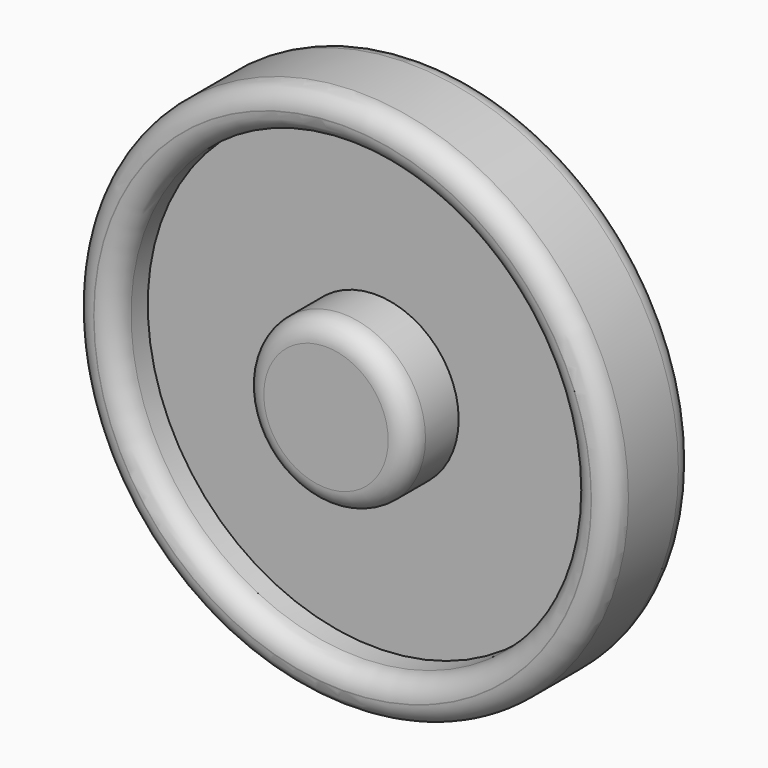
from build123d import *

# Parameters (mm, degrees)
CYLINDER236_R     = 11
CYLINDER236_DEPTH = 2
CYLINDER235_R     = 1.65
CYLINDER235_DEPTH = 5
CYLINDER234_R     = 13
CYLINDER234_DEPTH = 5
BOX161_W          = 10
BOX161_H          = 12
BOX161_DEPTH      = 10
CYLINDER233_R     = 1.65
CYLINDER233_DEPTH = 5
FILLET067_R       = 0.99
FILLET066_R       = 1
CYLINDER232_R     = 1.65
CYLINDER232_DEPTH = 2
CYLINDER231_R     = 4
CYLINDER231_DEPTH = 3
FILLET065_R       = 1


with BuildPart() as cylinder519:
    # Cylinder236 → Cylinder236 (new body)
    with BuildSketch(Plane(origin=(333.25, -23, -34.25), x_dir=(1, 0, 0), z_dir=(0, -1, 0))):
        Circle(CYLINDER236_R)
    extrude(amount=CYLINDER236_DEPTH)


with BuildPart() as cylinder517:
    # Cylinder235 → Cylinder235 (new body)
    with BuildSketch(Plane(origin=(333.25, -20, -34.25), x_dir=(1, 0, 0), z_dir=(0, -1, 0))):
        Circle(CYLINDER235_R)
    extrude(amount=CYLINDER235_DEPTH)


with BuildPart() as cut172:
    # Cylinder234 → Cylinder234 (new body)
    with BuildSketch(Plane(origin=(333.25, -20, -34.25), x_dir=(1, 0, 0), z_dir=(0, -1, 0))):
        Circle(CYLINDER234_R)
    extrude(amount=CYLINDER234_DEPTH)

    # Cut172: cut Cylinder517
    add(cylinder517.part, mode=Mode.SUBTRACT)


with BuildPart() as cube257:
    # Box161 → Box161 (new body)
    with BuildSketch(Plane(origin=(320.25, -4, -55), x_dir=(1, 0, 0), z_dir=(0, 0, 1))):
        with Locations((5, 6)):
            Rectangle(BOX161_W, BOX161_H)
    extrude(amount=BOX161_DEPTH)


with BuildPart() as fillet066:
    # Cylinder233 → Cylinder233 (new body)
    with BuildSketch(Plane(origin=(329.25, 8, -49), x_dir=(1, 0, 0), z_dir=(0, -1, 0))):
        Circle(CYLINDER233_R)
    extrude(amount=CYLINDER233_DEPTH)

    # Cut171: cut Cube257
    add(cube257.part, mode=Mode.SUBTRACT)


with BuildPart() as fillet066_1:
    # Cut171 placement: moved
    add(fillet066.part.moved(Location((4, -28, 14.75))))

    # Fusion199: union Cut172
    add(cut172.part)

    # Cut170: cut Cylinder519
    add(cylinder519.part, mode=Mode.SUBTRACT)

    # Fillet067
    fillet067_edges = [fillet066_1.edges().sort_by_distance(p)[0] for p in [
        (320.25, -25, -34.25),
        (322.25, -25, -34.25),
    ]]
    fillet(fillet067_edges, radius=FILLET067_R)

    # Fillet066
    fillet066_edges = [fillet066_1.edges().sort_by_distance(p)[0] for p in [
        (320.25, -20, -34.25),
    ]]
    fillet(fillet066_edges, radius=FILLET066_R)


with BuildPart() as cylinder520:
    # Cylinder232 → Cylinder232 (new body)
    with BuildSketch(Plane(origin=(333.25, -23, -34.25), x_dir=(1, 0, 0), z_dir=(0, -1, 0))):
        Circle(CYLINDER232_R)
    extrude(amount=CYLINDER232_DEPTH)


with BuildPart() as supports_wheel:
    # Cylinder231 → Cylinder231 (new body)
    with BuildSketch(Plane(origin=(333.25, -23, -34.25), x_dir=(1, 0, 0), z_dir=(0, -1, 0))):
        Circle(CYLINDER231_R)
    extrude(amount=CYLINDER231_DEPTH)

    # Cut169: cut Cylinder520
    add(cylinder520.part, mode=Mode.SUBTRACT)

    # Fillet065
    fillet065_edges = [supports_wheel.edges().sort_by_distance(p)[0] for p in [
        (329.25, -26, -34.25),
    ]]
    fillet(fillet065_edges, radius=FILLET065_R)

    # Fusion198: union Fillet066
    add(fillet066_1.part)


with BuildPart() as supports_wheel_1:
    # Fusion198 placement: moved
    add(supports_wheel.part.moved(Location((-78.7, -9, 17.5))))


solid = supports_wheel_1.part
